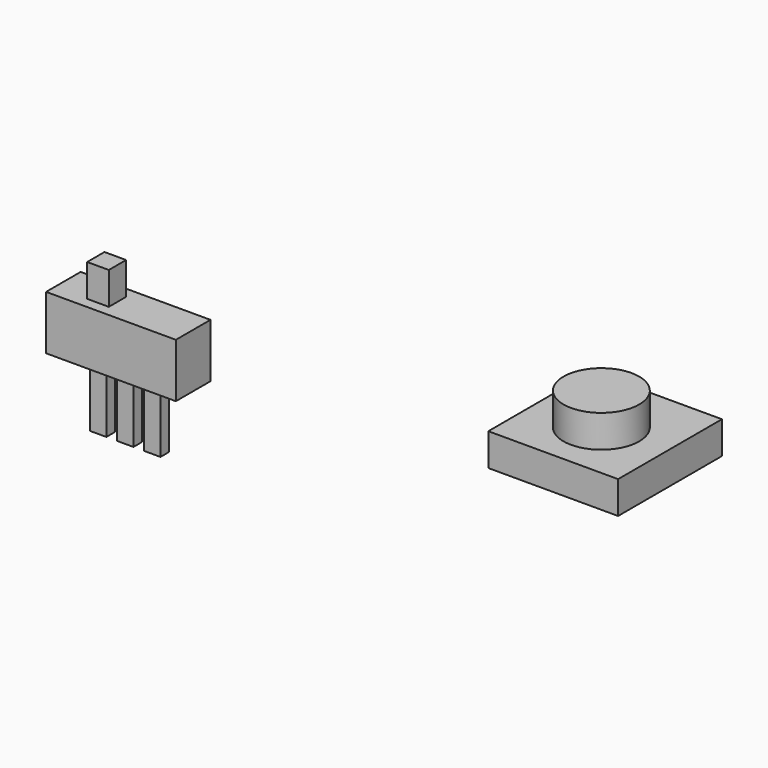
from build123d import *

# Parameters (mm, degrees)
F0_W     = 12
F0_H     = 5
F1_DEPTH = 4
F2_W     = 2
F2_H     = 2
F3_DEPTH = 3
F4_W     = 1.5
F4_H     = 1
F5_DEPTH = 6
F6_W     = 12
F6_H     = 12
F7_DEPTH = 3
F8_R     = 3.5
F9_DEPTH = 3


with BuildPart() as f1:
    # F0 (on Front) → F1 (new body)
    with BuildSketch(Plane.XZ):
        with Locations((-7.848217, -2.5)):
            Rectangle(F0_W, F0_H)
    extrude(amount=F1_DEPTH)

    # F2 (on face) → F3 (join)
    with BuildSketch(Plane.XY):
        with Locations((-9.848217, -2)):
            Rectangle(F2_W, F2_H)
    extrude(amount=F3_DEPTH)

    # F4 (on face) → F5 (join)
    with BuildSketch(Plane(origin=(0, 0, -5), x_dir=(1, 0, 0), z_dir=(0, 0, -1))):
        with Locations((-10.223217, 2)):
            Rectangle(F4_W, F4_H)
        with Locations((-7.723217, 2)):
            Rectangle(F4_W, F4_H)
        with Locations((-5.223217, 2)):
            Rectangle(F4_W, F4_H)
    extrude(amount=F5_DEPTH)


with BuildPart() as f7:
    # F6 (on Top) → F7 (new body)
    with BuildSketch(Plane.XY):
        with Locations((34.295817, 0.432971)):
            Rectangle(F6_W, F6_H)
    extrude(amount=F7_DEPTH)

    # F8 (on face) → F9 (join)
    with BuildSketch(Plane.XY.offset(3)):
        with Locations((34.295817, 0)):
            Circle(F8_R)
    extrude(amount=F9_DEPTH)


solid = Compound([f1.part, f7.part])
